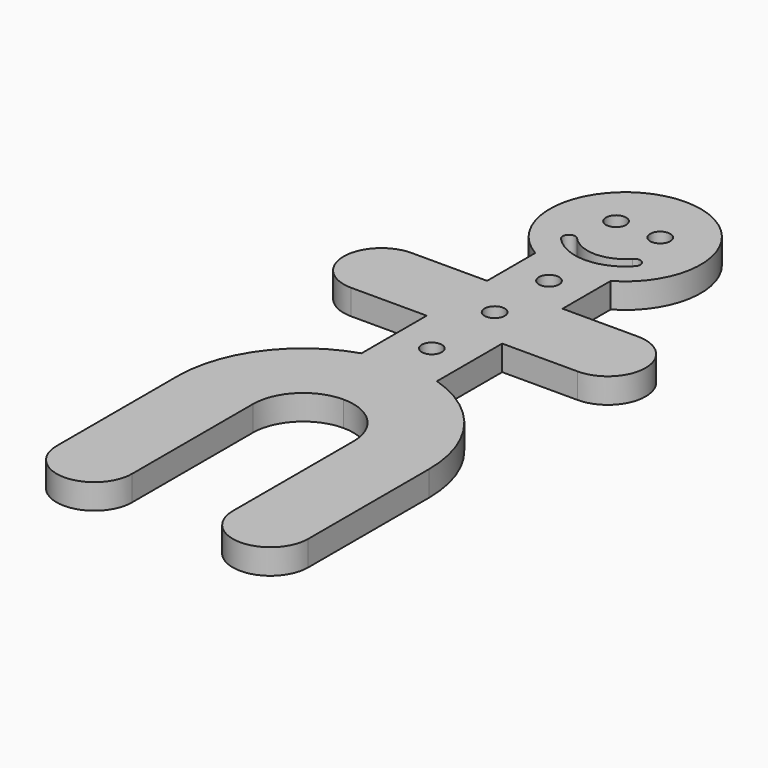
from build123d import *

# Parameters (mm, degrees)
F0_R     = 2
F1_DEPTH = 5


with BuildPart() as f1:
    # F0 (on Top) → F1 (new body)
    with BuildSketch(Plane.XY):
        with BuildLine():
            ThreePointArc((7.5, -12.990381), (14.488887, 3.882286), (0, 15))
            ThreePointArc((0, 15), (-14.488887, 3.882286), (-7.5, -12.990381))
            Line((-7.5, -12.990381), (-7.5, -24.950966))
            Line((-7.5, -24.950966), (-22.5, -24.950966))
            ThreePointArc((-22.5, -24.950966), (-30, -32.450966), (-22.5, -39.950966))
            Line((-22.5, -39.950966), (-7.5, -39.950966))
            Line((-7.5, -39.950966), (-7.5, -56.15152))
            ThreePointArc((-7.5, -56.15152), (-20.155644, -65.209801), (-25, -80))
            Line((-25, -80), (-25, -110))
            ThreePointArc((-25, -110), (-17.5, -117.5), (-10, -110))
            Line((-10, -110), (-10, -80))
            ThreePointArc((-10, -80), (-7.071068, -72.928932), (0, -70))
            ThreePointArc((0, -70), (7.071068, -72.928932), (10, -80))
            Line((10, -80), (10, -110))
            ThreePointArc((10, -110), (17.5, -117.5), (25, -110))
            Line((25, -110), (25, -80))
            ThreePointArc((25, -80), (20.155644, -65.209801), (7.5, -56.15152))
            Line((7.5, -56.15152), (7.5, -39.950966))
            Line((7.5, -39.950966), (22.5, -39.950966))
            ThreePointArc((22.5, -39.950966), (30, -32.450966), (22.5, -24.950966))
            Line((22.5, -24.950966), (7.5, -24.950966))
            Line((7.5, -24.950966), (7.5, -12.990381))
        make_face()
        with Locations((-4.38734, 3.19664)):
            Circle(F0_R, mode=Mode.SUBTRACT)
        with Locations((0, -48.051243)):
            Circle(F0_R, mode=Mode.SUBTRACT)
        with Locations((0, -32.450966)):
            Circle(F0_R, mode=Mode.SUBTRACT)
        with Locations((0, -18.939184)):
            Circle(F0_R, mode=Mode.SUBTRACT)
        with BuildLine():
            ThreePointArc((7.378176, -6.750002), (0, -10), (-7.378176, -6.750002))
            ThreePointArc((-7.378176, -6.750002), (-7.299654, -4.983979), (-5.533632, -5.062501))
            ThreePointArc((-5.533632, -5.062501), (0, -7.5), (5.533632, -5.062501))
            ThreePointArc((5.533632, -5.062501), (7.299654, -4.983979), (7.378176, -6.750002))
        make_face(mode=Mode.SUBTRACT)
        with Locations((4.38734, 3.19664)):
            Circle(F0_R, mode=Mode.SUBTRACT)
    extrude(amount=F1_DEPTH)


solid = f1.part
